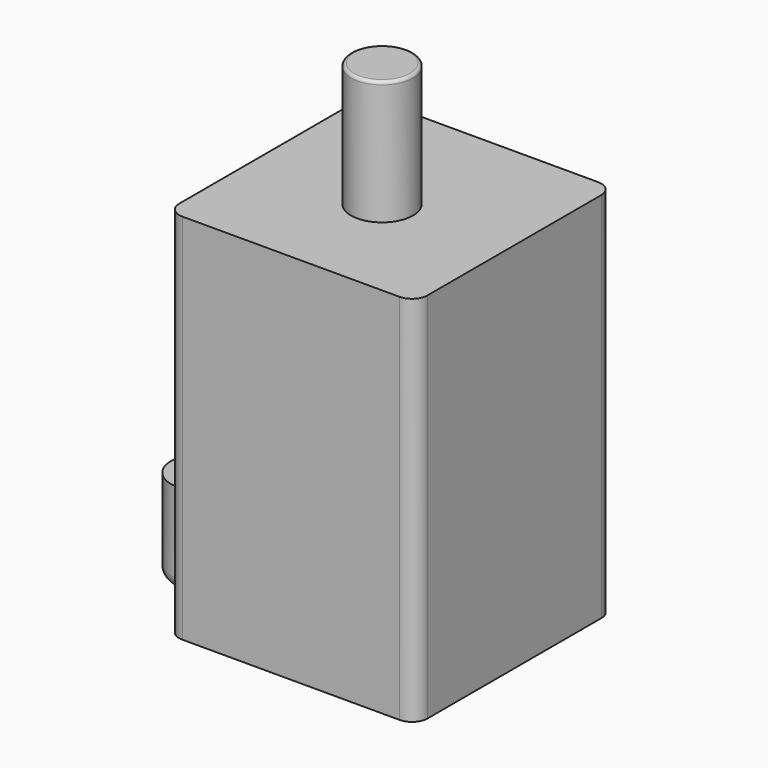
from build123d import *

# Parameters (mm, degrees)
PAD_DEPTH    = 120
SKETCH001_R  = 10
PAD001_DEPTH = 40
FILLET_R     = 1
SKETCH002_W  = 35
SKETCH002_H  = 30
PAD002_DEPTH = 22
FILLET001_R  = 10
FILLET002_R  = 4


with BuildPart() as part:
    # Sketch → Pad (new body)
    with BuildSketch(Plane.XY):
        with BuildLine():
            Line((-35, 43.30686), (35, 43.30686))
            ThreePointArc((40, 38.30686), (38.535534, 41.842393), (35, 43.30686))
            Line((40, 38.30686), (40, -31.69314))
            ThreePointArc((35, -36.69314), (38.535534, -35.228674), (40, -31.69314))
            Line((35, -36.69314), (-35, -36.69314))
            ThreePointArc((-40, -31.69314), (-38.535534, -35.228674), (-35, -36.69314))
            Line((-40, -31.69314), (-40, 38.30686))
            ThreePointArc((-35, 43.30686), (-38.535534, 41.842393), (-40, 38.30686))
        make_face()
    extrude(amount=PAD_DEPTH)

    # Sketch001 (on Face10 of Pad) → Pad001 (join)
    with BuildSketch(Plane.XY.offset(120)):
        Circle(SKETCH001_R)
    extrude(amount=PAD001_DEPTH)

    # Fillet
    fillet_edges = [part.edges().sort_by_distance(p)[0] for p in [
        (-10, 0, 160),
    ]]
    fillet(fillet_edges, radius=FILLET_R)

    # Sketch002 (on Face8 of Fillet) → Pad002 (join)
    with BuildSketch(Plane(origin=(-40, 0, 0), x_dir=(0, -1, 0), z_dir=(-1, 0, 0))):
        with Locations((0, 15)):
            Rectangle(SKETCH002_W, SKETCH002_H)
    extrude(amount=PAD002_DEPTH)

    # Fillet001
    fillet001_edges = [part.edges().sort_by_distance(p)[0] for p in [
        (-62, 17.5, 15),
        (-62, -17.5, 15),
    ]]
    fillet(fillet001_edges, radius=FILLET001_R)

    # Fillet002
    fillet002_edges = [part.edges().sort_by_distance(p)[0] for p in [
        (-62, 0, 0),
    ]]
    fillet(fillet002_edges, radius=FILLET002_R)


solid = part.part
